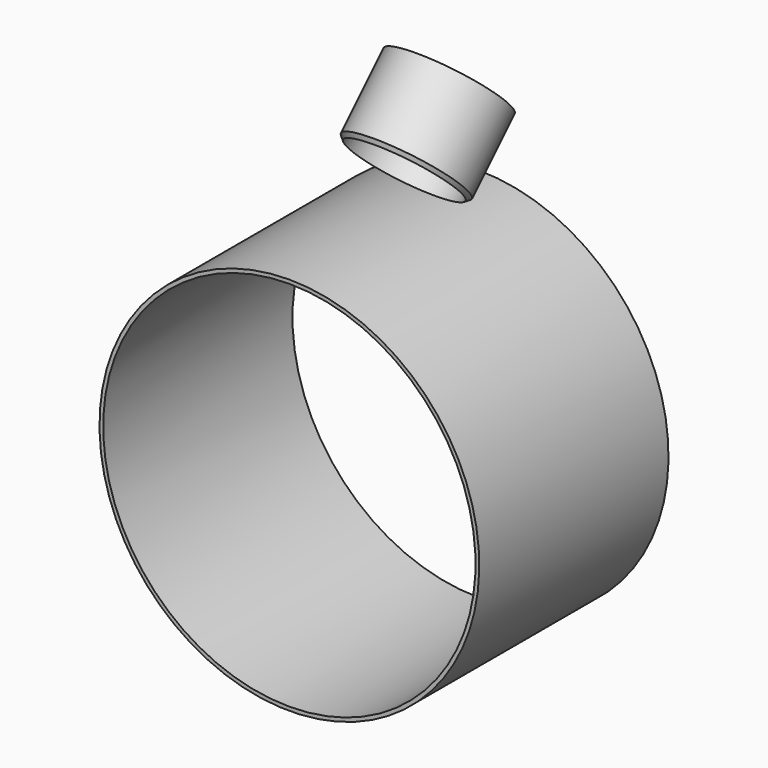
from build123d import *

# Parameters (mm, degrees)
F0_W = 190
F0_H = 3


with BuildPart() as f1:
    # F0 (on Right) → F1 (revolve)
    with BuildSketch(Plane.YZ):
        with Locations((95, 151)):
            Rectangle(F0_W, F0_H)
    revolve(axis=Axis((0, 313.279984, 0), (0, 1, 0)))

    # F2 (on Right) → F3 (revolve)
    with BuildSketch(Plane.YZ):
        Polygon((190.820752, 197.509568), (145.811183, 152.5), (150.053824, 152.5), (192.942072, 195.388248), align=None)
    revolve(axis=Axis((0, 111.468418, 178.968418), (0, 0.707107, 0.707107)))


solid = f1.part
